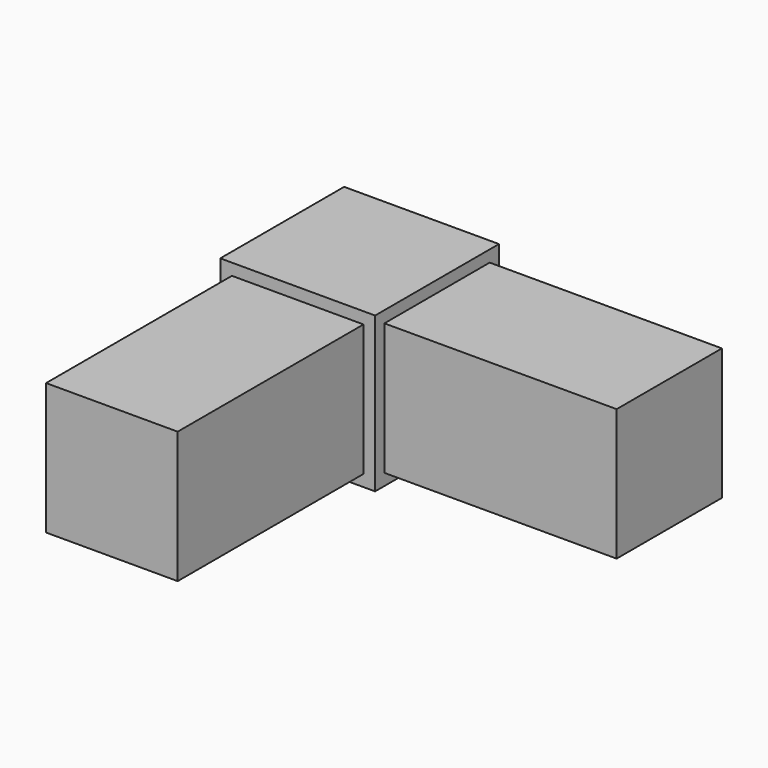
from build123d import *

# Parameters (mm, degrees)
F0_W     = 20
F0_H     = 20
F1_DEPTH = 20
F3_W     = 17
F3_H     = 17
F4_DEPTH = 30
F5_W     = 17
F5_H     = 17
F6_DEPTH = 30


with BuildPart() as f1:
    # F0 (on Front) → F1 (new body)
    with BuildSketch(Plane.XZ):
        Rectangle(F0_W, F0_H)
    extrude(amount=F1_DEPTH)


with BuildPart() as f1_1:
    # F2: moved
    add(f1.part.moved(Location((0, 10, 0))))

    # F3 (on face) → F4 (join)
    with BuildSketch(Plane.XZ.offset(10)):
        Rectangle(F3_W, F3_H)
    extrude(amount=F4_DEPTH)

    # F5 (on face) → F6 (join)
    with BuildSketch(Plane.YZ.offset(10)):
        Rectangle(F5_W, F5_H)
    extrude(amount=F6_DEPTH)


solid = f1_1.part
